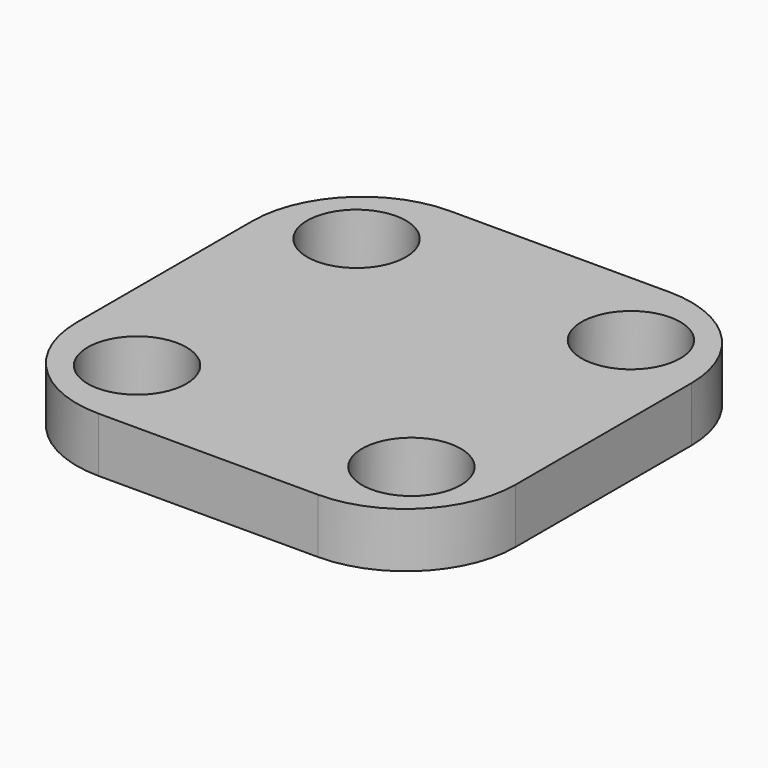
from build123d import *

# Parameters (mm, degrees)
CYLINDER059_R       = 1.8
CYLINDER059_DEPTH   = 20
ARRAY001007_X_COUNT = 2
ARRAY001007_X_PITCH = 10
ARRAY001007_Y_COUNT = 2
ARRAY001007_Y_PITCH = 10
BOX008_W            = 16
BOX008_H            = 16
BOX008_DEPTH        = 2
FILLET014_R         = 4


with BuildPart() as rod_holder_hole_array001:
    # Cylinder059 → Cylinder059 (new body)
    with BuildSketch(Plane(origin=(3, 3, -6), x_dir=(1, 0, 0), z_dir=(0, 0, 1))):
        Circle(CYLINDER059_R)
    extrude(amount=CYLINDER059_DEPTH)

    # Array001007 X: rod holder hole array001 ×2


with BuildPart() as rod_holder_hole_array001_1:
    add(rod_holder_hole_array001.part)
    with Locations(*[(i * ARRAY001007_X_PITCH, 0, 0) for i in range(1, ARRAY001007_X_COUNT)]):
        add(rod_holder_hole_array001.part)

    # Array001007 Y: rod holder hole array001 ×2


with BuildPart() as rod_holder_hole_array001_2:
    add(rod_holder_hole_array001_1.part)
    with Locations(*[(0, i * ARRAY001007_Y_PITCH, 0) for i in range(1, ARRAY001007_Y_COUNT)]):
        add(rod_holder_hole_array001_1.part)


with BuildPart() as rod_cover_fillet:
    # Box008 → Box008 (new body)
    with BuildSketch(Plane.XY):
        with Locations((8, 8)):
            Rectangle(BOX008_W, BOX008_H)
    extrude(amount=BOX008_DEPTH)

    # Cut023005: cut rod holder hole array001
    add(rod_holder_hole_array001_2.part, mode=Mode.SUBTRACT)

    # Fillet014
    fillet014_edges = [rod_cover_fillet.edges().sort_by_distance(p)[0] for p in [
        (0, 0, 1),
        (0, 16, 1),
        (16, 0, 1),
        (16, 16, 1),
    ]]
    fillet(fillet014_edges, radius=FILLET014_R)


solid = rod_cover_fillet.part
